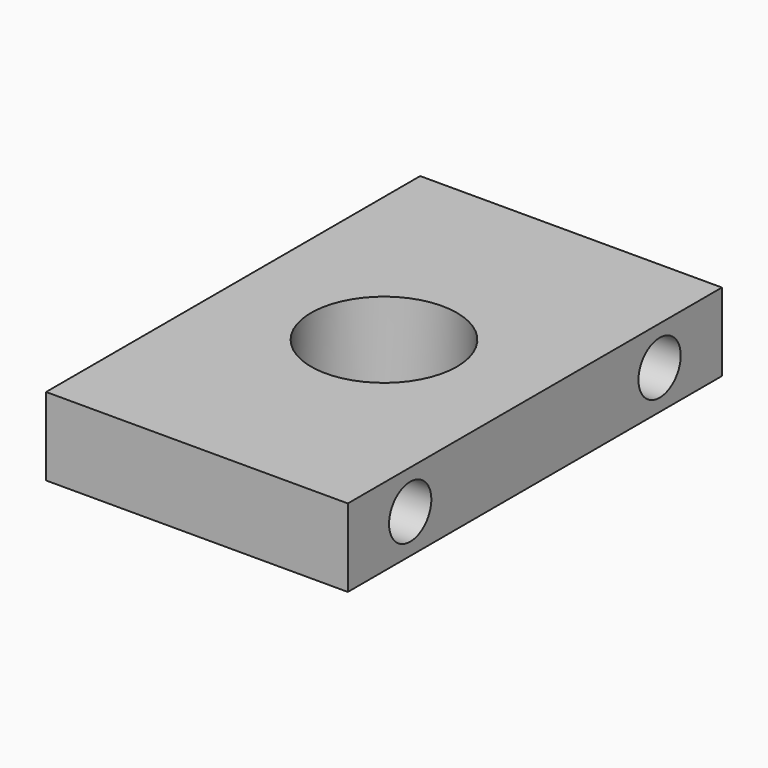
from build123d import *

# Parameters (mm, degrees)
F0_W     = 24.5872
F0_H     = 38.1
F0_R     = 5.9436
F1_DEPTH = 6.35
F2_R     = 2.15265
F3_DEPTH = 24.5882


with BuildPart() as f1:
    # F0 (on Top) → F1 (new body)
    with BuildSketch(Plane.XY):
        with Locations((12.2936, 19.05)):
            Rectangle(F0_W, F0_H)
        with Locations((12.2936, 19.05)):
            Circle(F0_R, mode=Mode.SUBTRACT)
    extrude(amount=F1_DEPTH)

    # F2 (on face) → F3 (cut, through all)
    with BuildSketch(Plane(origin=(0, 0, 0), x_dir=(0, -1, 0), z_dir=(-1, 0, 0))):
        with Locations((-31.75, 3.175)):
            Circle(F2_R)
        with Locations((-6.35, 3.175)):
            Circle(F2_R)
    extrude(amount=-F3_DEPTH, mode=Mode.SUBTRACT)


solid = f1.part
